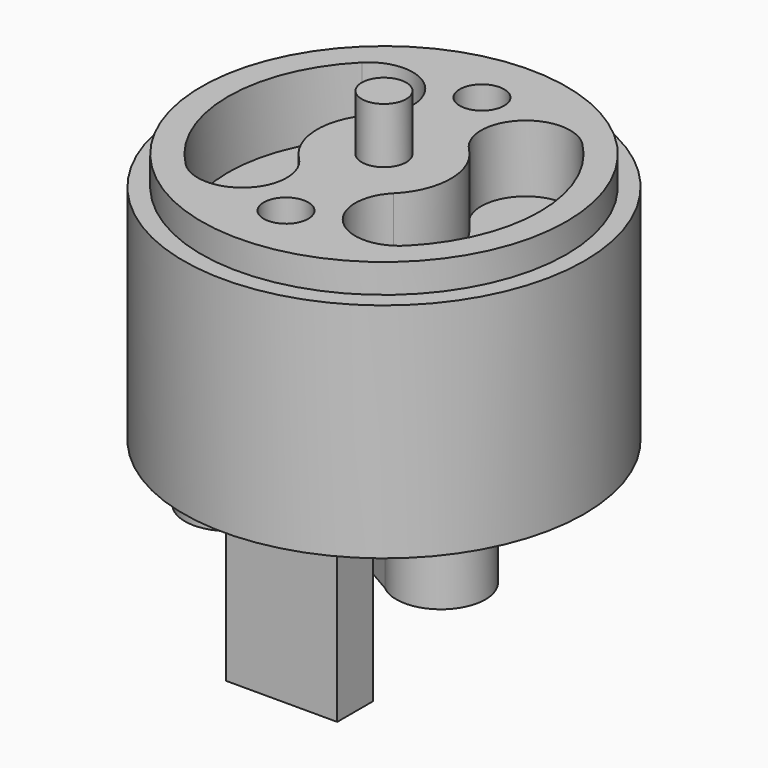
from build123d import *

# Parameters (mm, degrees)
PAD_DEPTH       = 3
SKETCH001_R     = 9
PAD001_DEPTH    = 10
SKETCH002_R     = 8.2
PAD002_DEPTH    = 1.3
SKETCH003_R     = 1
PAD003_DEPTH    = 2.5
SKETCH004_R     = 1
POCKET_DEPTH    = 3
SKETCH005_R     = 1
POCKET001_DEPTH = 3
SKETCH006_R     = 2
PAD004_DEPTH    = 0.6
SKETCH007_R     = 1
PAD005_DEPTH    = 1
SKETCH008_W     = 5
SKETCH008_H     = 2
PAD006_DEPTH    = 8


with BuildPart() as part:
    # Sketch → Pad (new body)
    with BuildSketch(Plane.XY):
        with BuildLine():
            ThreePointArc((3.450971, -4.263113), (6.482051, -3.742414), (5.41745, -0.857073))
            Line((5.41745, -0.857073), (3.748487, 0.106503))
            ThreePointArc((3.748487, 0.106503), (3.247595, 1.875), (1.966478, 3.193034))
            Line((1.966478, 5.120185), (1.966478, 3.193034))
            ThreePointArc((1.966478, 5.120185), (0, 7.484828), (-1.966478, 5.120185))
            Line((-1.966478, 5.120185), (-1.966478, 3.193034))
            ThreePointArc((-1.966478, 3.193034), (-3.247595, 1.875), (-3.748487, 0.106503))
            Line((-5.41745, -0.857073), (-3.748487, 0.106503))
            ThreePointArc((-5.41745, -0.857073), (-6.482051, -3.742414), (-3.450971, -4.263113))
            Line((-3.450971, -4.263113), (-1.782009, -3.299537))
            ThreePointArc((-1.782009, -3.299537), (0, -3.75), (1.782009, -3.299537))
            Line((3.450971, -4.263113), (1.782009, -3.299537))
        make_face()
    extrude(amount=PAD_DEPTH)

    # Sketch001 (on Face14 of Pad) → Pad001 (join)
    with BuildSketch(Plane.XY.offset(3)):
        Circle(SKETCH001_R)
    extrude(amount=PAD001_DEPTH)

    # Sketch002 (on Face3 of Pad001) → Pad002 (join)
    with BuildSketch(Plane.XY.offset(13)):
        Circle(SKETCH002_R)
    extrude(amount=PAD002_DEPTH)

    # Sketch003 (on Face18 of Pad002) → Pad003 (join)
    with BuildSketch(Plane.XY.offset(14.3)):
        Circle(SKETCH003_R)
    extrude(amount=PAD003_DEPTH)

    # Sketch004 (on Face17 of Pad003) → Pocket (cut)
    with BuildSketch(Plane(origin=(0, 0, 0), x_dir=(1, 0, 0), z_dir=(0, 0, -1))):
        with Locations((4.75, 2.742414)):
            Circle(SKETCH004_R)
        with Locations((-4.75, 2.742414)):
            Circle(SKETCH004_R)
        with Locations((0, -5.484828)):
            Circle(SKETCH004_R)
    extrude(amount=-POCKET_DEPTH, mode=Mode.SUBTRACT)

    # Sketch005 (on Face18 of Pocket) → Pocket001 (cut)
    with BuildSketch(Plane.XY.offset(14.3)):
        with Locations((0, 5.5)):
            Circle(SKETCH005_R)
        with Locations((0, -5.5)):
            Circle(SKETCH005_R)
        with BuildLine():
            ThreePointArc((-2.12132, 2.12132), (-3, 0), (-2.12132, -2.12132))
            ThreePointArc((-4.949764, -4.949731), (-2.121328, -4.949756), (-2.12132, -2.12132))
            ThreePointArc((-4.949748, 4.949747), (-7, 1.1e-05), (-4.949764, -4.949731))
            ThreePointArc((-2.12132, 2.12132), (-2.12132, 4.949747), (-4.949748, 4.949747))
        make_face()
        with BuildLine():
            ThreePointArc((2.12132, -2.12132), (3, 0), (2.12132, 2.12132))
            ThreePointArc((4.949748, 4.949747), (2.12132, 4.949748), (2.12132, 2.12132))
            ThreePointArc((4.949747, -4.949748), (7, 0), (4.949748, 4.949747))
            ThreePointArc((2.12132, -2.12132), (2.12132, -4.949747), (4.949747, -4.949748))
        make_face()
    extrude(amount=-POCKET001_DEPTH, mode=Mode.SUBTRACT)

    # Sketch006 (on Face17 of Pocket001) → Pad004 (join)
    with BuildSketch(Plane(origin=(0, 0, 0), x_dir=(1, 0, 0), z_dir=(0, 0, -1))):
        Circle(SKETCH006_R)
    extrude(amount=PAD004_DEPTH)

    # Sketch007 (on Face36 of Pad004) → Pad005 (join)
    with BuildSketch(Plane(origin=(0, 0, -0.6), x_dir=(1, 0, 0), z_dir=(0, 0, -1))):
        Circle(SKETCH007_R)
    extrude(amount=PAD005_DEPTH)

    # Sketch008 (on Face2 of Pad005) → Pad006 (join)
    with BuildSketch(Plane(origin=(0, 0, 3), x_dir=(1, 0, 0), z_dir=(0, 0, -1))):
        with Locations((0, 4.75)):
            Rectangle(SKETCH008_W, SKETCH008_H)
    extrude(amount=PAD006_DEPTH)


solid = part.part
